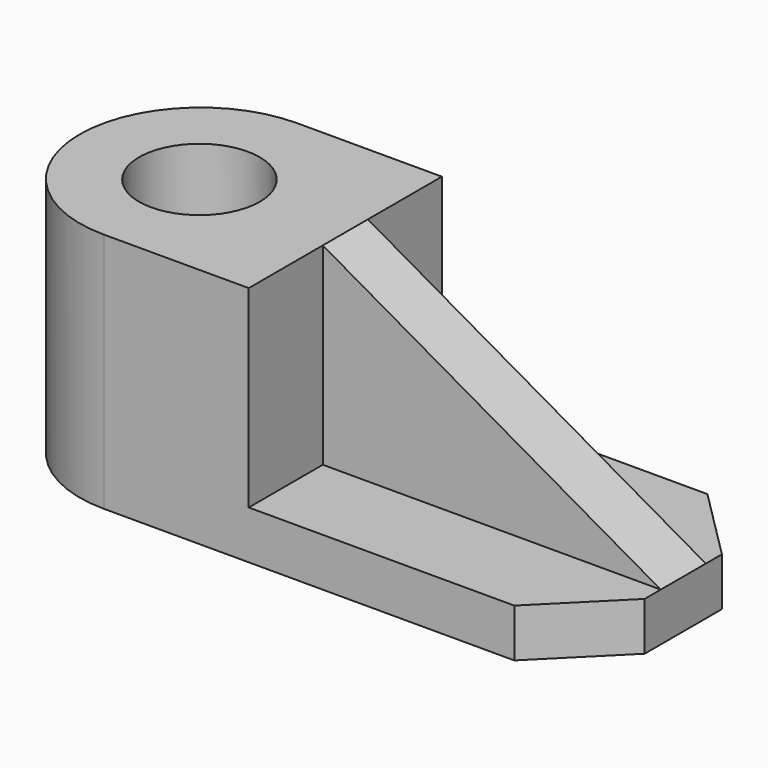
from build123d import *

# Parameters (mm, degrees)
F1_DEPTH  = 152.4
F3_DEPTH  = 609.6
F4_W      = 177.8
F4_H      = 609.6
F5_DEPTH  = 1066.8
F7_DEPTH  = 177.8
F10_DEPTH = 152.4
F11_R     = 190.5
F12_DEPTH = 762


with BuildPart() as f1:
    # F0 (on Top) → F1 (new body)
    with BuildSketch(Plane.XY):
        with BuildLine():
            Line((1455.440972, 385.110605), (-68.559028, 385.110605))
            ThreePointArc((-68.559028, 385.110605), (-449.559028, 4.110605), (-68.559028, -376.889395))
            Line((-68.559028, -376.889395), (1455.440972, -376.889395))
            Line((1455.440972, -376.889395), (1455.440972, 385.110605))
        make_face()
    extrude(amount=F1_DEPTH)

    # F2 (on face) → F3 (join)
    with BuildSketch(Plane.XY.offset(152.4)):
        with BuildLine():
            Line((388.640972, 385.110605), (-68.559028, 385.110605))
            ThreePointArc((-68.559028, 385.110605), (-449.559028, 4.110605), (-68.559028, -376.889395))
            Line((-68.559028, -376.889395), (388.640972, -376.889395))
            Line((388.640972, -376.889395), (388.640972, 385.110605))
        make_face()
    extrude(amount=F3_DEPTH)

    # F4 (on face) → F5 (join)
    with BuildSketch(Plane.YZ.offset(388.640972)):
        with Locations((4.110605, 457.2)):
            Rectangle(F4_W, F4_H)
    extrude(amount=F5_DEPTH)

    # F6 (on face) → F7 (cut)
    with BuildSketch(Plane.XZ.offset(84.789395)):
        Polygon((1455.440972, 762), (388.640972, 762), (1455.440972, 152.4), align=None)
    extrude(amount=-F7_DEPTH, mode=Mode.SUBTRACT)

    # F8 (on face) + F9 (on face) → F10 (cut)
    with BuildSketch(Plane.XY.offset(152.4)):
        Polygon((1455.440972, 156.510605), (1455.440972, 385.110605), (1226.840972, 385.110605), align=None)
    with BuildSketch(Plane.XY.offset(152.4)):
        Polygon((1226.840972, -376.889395), (1455.440972, -376.889395), (1455.440972, -148.289395), align=None)
    extrude(amount=-F10_DEPTH, mode=Mode.SUBTRACT)

    # F11 (on face) → F12 (cut)
    with BuildSketch(Plane.XY.offset(762)):
        with Locations((-68.559028, 0)):
            Circle(F11_R)
    extrude(amount=-F12_DEPTH, mode=Mode.SUBTRACT)


solid = f1.part
